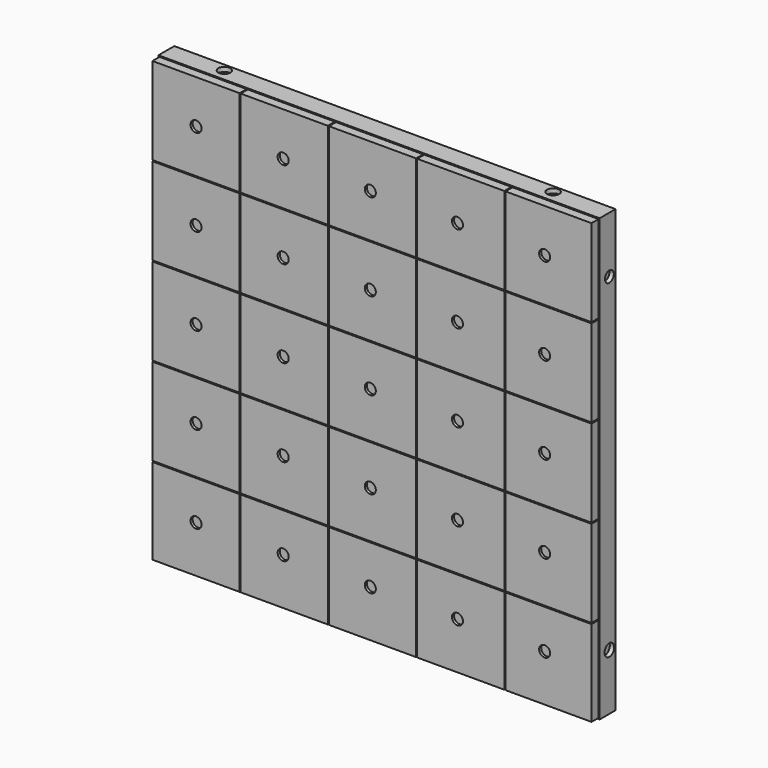
from build123d import *

# Parameters (mm, degrees)
F0_W      = 200
F0_H      = 200
F1_DEPTH  = 15
F3_DEPTH  = 5
F2_W      = 200
F2_H      = 0.5
F4_DEPTH  = 4
F5_W      = 0.5
F5_H      = 200
F6_DEPTH  = 4
F8_DEPTH  = 4
F9_R      = 2.5
F10_DEPTH = 1.2
F11_R     = 2.75
F11_R_2   = 2.5
F12_DEPTH = 2
F13_R     = 2.75
F13_R_2   = 2.5
F14_DEPTH = 2
F15_SIZE  = 2
F16_R     = 2.75
F17_DEPTH = 2
F18_R     = 2.75
F19_DEPTH = 2


with BuildPart() as f1:
    # F0 (on Front) → F1 (new body)
    with BuildSketch(Plane.XZ):
        Rectangle(F0_W, F0_H)
        Rectangle(F0_W, F0_H)
    extrude(amount=F1_DEPTH)

    # F0 (on Front) → F3 (join)
    with BuildSketch(Plane.XZ):
        Rectangle(F0_W, F0_H)
    extrude(amount=F3_DEPTH)

    # F2 (on face) → F4 (cut)
    with BuildSketch(Plane.XZ.offset(15)):
        with Locations((0, 99.75)):
            Rectangle(F2_W, F2_H)
        with Locations((0, 59.75)):
            Rectangle(F2_W, F2_H)
        with Locations((0, 19.75)):
            Rectangle(F2_W, F2_H)
        with Locations((0, -20.25)):
            Rectangle(F2_W, F2_H)
        with Locations((0, -60.25)):
            Rectangle(F2_W, F2_H)
        with Locations((0, -100.25)):
            Rectangle(F2_W, F2_H)
    extrude(amount=-F4_DEPTH, mode=Mode.SUBTRACT)

    # F5 (on face) → F6 (cut)
    with BuildSketch(Plane.XZ.offset(15)):
        with Locations((-99.75, 0)):
            Rectangle(F5_W, F5_H)
        with Locations((-59.75, 0)):
            Rectangle(F5_W, F5_H)
        with Locations((-19.75, 0)):
            Rectangle(F5_W, F5_H)
        with Locations((20.25, 0)):
            Rectangle(F5_W, F5_H)
        with Locations((60.25, 0)):
            Rectangle(F5_W, F5_H)
        with Locations((100.25, 0)):
            Rectangle(F5_W, F5_H)
    extrude(amount=-F6_DEPTH, mode=Mode.SUBTRACT)

    # F7 (on face) → F8 (cut)
    with BuildSketch(Plane.XZ.offset(15)):
        Polygon((-100, -99.5), (-100, -100), (99.5, -100), (100, -100), (100, -99.5), (100, 99.5), (99.5, 99.5), (99.5, -99.5), align=None)
    extrude(amount=-F8_DEPTH, mode=Mode.SUBTRACT)

    # F9 (on face) → F10 (cut)
    with BuildSketch(Plane.XZ.offset(15)):
        with Locations((-79.75, 79.75)):
            Circle(F9_R)
        with Locations((-79.75, 40.25)):
            Circle(F9_R)
        with Locations((-79.75, 0.75)):
            Circle(F9_R)
        with Locations((-79.75, -38.75)):
            Circle(F9_R)
        with Locations((-79.75, -78.25)):
            Circle(F9_R)
        with Locations((-40.25, 79.75)):
            Circle(F9_R)
        with Locations((-40.25, 40.25)):
            Circle(F9_R)
        with Locations((-40.25, 0.75)):
            Circle(F9_R)
        with Locations((-40.25, -38.75)):
            Circle(F9_R)
        with Locations((-40.25, -78.25)):
            Circle(F9_R)
        with Locations((-0.75, 79.75)):
            Circle(F9_R)
        with Locations((-0.75, 40.25)):
            Circle(F9_R)
        with Locations((-0.75, 0.75)):
            Circle(F9_R)
        with Locations((-0.75, -38.75)):
            Circle(F9_R)
        with Locations((-0.75, -78.25)):
            Circle(F9_R)
        with Locations((38.75, 79.75)):
            Circle(F9_R)
        with Locations((38.75, 40.25)):
            Circle(F9_R)
        with Locations((38.75, 0.75)):
            Circle(F9_R)
        with Locations((38.75, -38.75)):
            Circle(F9_R)
        with Locations((38.75, -78.25)):
            Circle(F9_R)
        with Locations((78.25, 79.75)):
            Circle(F9_R)
        with Locations((78.25, 40.25)):
            Circle(F9_R)
        with Locations((78.25, 0.75)):
            Circle(F9_R)
        with Locations((78.25, -38.75)):
            Circle(F9_R)
        with Locations((78.25, -78.25)):
            Circle(F9_R)
    extrude(amount=-F10_DEPTH, mode=Mode.SUBTRACT)

    # F11 (on face) → F12 (cut)
    with BuildSketch(Plane.YZ.offset(100)):
        with Locations((-5.5, -74.5)):
            Circle(F11_R)
        with Locations((-5.5, 74.5)):
            Circle(F11_R_2)
    extrude(amount=-F12_DEPTH, mode=Mode.SUBTRACT)

    # F13 (on face) → F14 (cut)
    with BuildSketch(Plane(origin=(0, 0, -100), x_dir=(1, 0, 0), z_dir=(0, 0, -1))):
        with Locations((-74.5, 5.5)):
            Circle(F13_R)
        with Locations((74.5, 5.5)):
            Circle(F13_R_2)
    extrude(amount=-F14_DEPTH, mode=Mode.SUBTRACT)

    # F15
    f15_edges = [f1.edges().sort_by_distance(p)[0] for p in [
        (0, 0, -100),
        (100, 0, 0),
        (0, 0, 100),
        (-100, 0, 0),
    ]]
    chamfer(f15_edges, length=F15_SIZE)

    # F16 (on face) → F17 (cut)
    with BuildSketch(Plane(origin=(-100, 0, 0), x_dir=(0, -1, 0), z_dir=(-1, 0, 0))):
        with Locations((5.5, -74.5)):
            Circle(F16_R)
        with Locations((5.5, 74.5)):
            Circle(F16_R)
    extrude(amount=-F17_DEPTH, mode=Mode.SUBTRACT)

    # F18 (on face) → F19 (cut)
    with BuildSketch(Plane.XY.offset(100)):
        with Locations((74.5, -5.5)):
            Circle(F18_R)
        with Locations((-74.5, -5.5)):
            Circle(F18_R)
    extrude(amount=-F19_DEPTH, mode=Mode.SUBTRACT)


with BuildPart() as f20_1:
    # F20: copy of F1
    add(f1.part)


solid = f1.part
